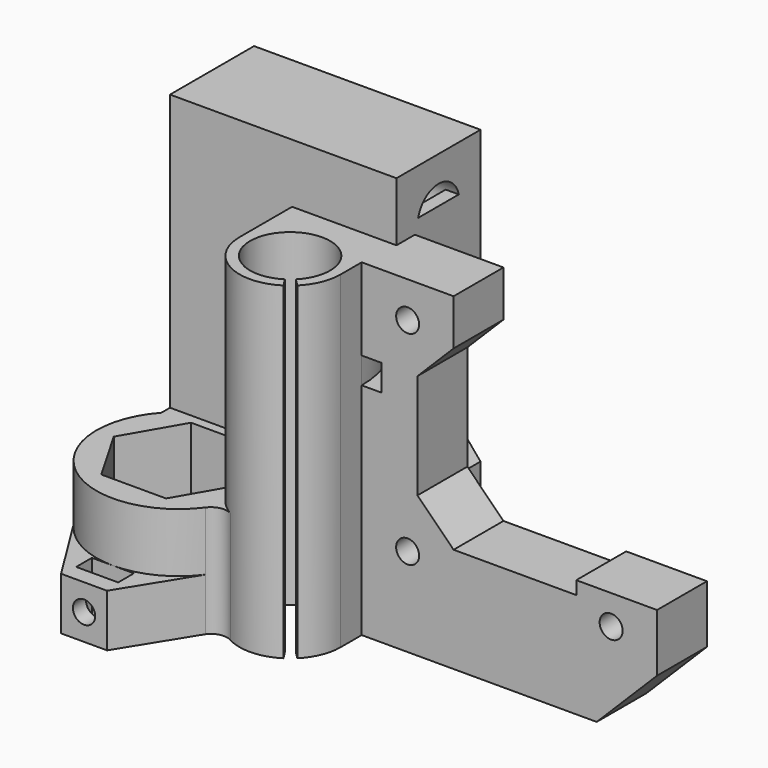
from build123d import *

# Parameters (mm, degrees)
BOX_W           = 34.5
BOX_H           = 16
BOX_DEPTH       = 59
SKETCH_R        = 4
POCKET_DEPTH    = 34.501
POCKET001_DEPTH = 3.5000000001
BOX001_W        = 45
BOX001_H        = 9.5
BOX001_DEPTH    = 50
SKETCH008_R     = 1.75
POCKET002_DEPTH = 9.5010000001
PAD_DEPTH       = 8
PAD001_DEPTH    = 2
SKETCH009_R     = 3.5
POCKET003_DEPTH = 2
PAD002_DEPTH    = 50
SKETCH013_R     = 6
PAD003_DEPTH    = 17
SKETCH019_W     = 9
SKETCH019_H     = 5.5
PAD004_DEPTH    = 2
SKETCH015_W     = 3
SKETCH015_H     = 4
GROOVE_ANGLE    = 40
SKETCH016_W     = 3
SKETCH016_H     = 4
POCKET004_DEPTH = 5
SKETCH020_W     = 6.4
SKETCH020_H     = 3
PAD005_DEPTH    = 8
SKETCH021_R     = 1.7
POCKET005_DEPTH = 13
POCKET006_DEPTH = 15
PAD006_DEPTH    = 17


with BuildPart() as pocket001:
    # Box → Box (new body)
    with BuildSketch(Plane(origin=(-18, -8, -30), x_dir=(1, 0, 0), z_dir=(0, 0, 1))):
        with Locations((17.25, 8)):
            Rectangle(BOX_W, BOX_H)
    extrude(amount=BOX_DEPTH)

    # Sketch → Pocket (cut, through all)
    with BuildSketch(Plane(origin=(16.5, -8, -30), x_dir=(0, 1, 0), z_dir=(1, 0, 0))):
        with Locations((8, 51)):
            Circle(SKETCH_R)
        with Locations((8, 6)):
            Circle(SKETCH_R)
        with BuildLine():
            ThreePointArc((12.5, 39.4999793754), (8.0000103123, 44), (3.5, 39.5))
            Line((3.5, 39.5), (3.5, 14.5))
            Line((3.5, 14.5), (6, 12))
            Line((6, 12), (10, 12))
            Line((10, 12), (12.5, 14.5))
            Line((12.5, 14.5), (12.5, 39.4999793754))
        make_face()
    extrude(amount=-POCKET_DEPTH, mode=Mode.SUBTRACT)

    # Sketch007 → Pocket001 (cut)
    with BuildSketch(Plane(origin=(-18, 8, -30), x_dir=(-1, 0, 0), z_dir=(0, 1, 0))):
        Polygon((-34.5, 39.4999793754), (-24.8503628945, 27.9999896877), (-24.8503628945, 25.9999896877), (-34.5, 14.5), align=None)
    extrude(amount=-POCKET001_DEPTH, mode=Mode.SUBTRACT)


with BuildPart() as pad006:
    # Box001 → Box001 (new body)
    with BuildSketch(Plane(origin=(16, -14, -30), x_dir=(1, 0, 0), z_dir=(0, 0, 1))):
        with Locations((22.5, 4.75)):
            Rectangle(BOX001_W, BOX001_H)
    extrude(amount=BOX001_DEPTH)

    # Sketch008 → Pocket002 (cut, through all)
    with BuildSketch(Plane(origin=(16, -14, -30), x_dir=(1, 0, 0), z_dir=(0, -1, 0))):
        with Locations((7, 44.5)):
            Circle(SKETCH008_R)
        with Locations((7, 13.5)):
            Circle(SKETCH008_R)
        with Locations((38, 13.5)):
            Circle(SKETCH008_R)
        Polygon((14, 50), (14, 43), (8.5, 37.5), (8.5, 21.5), (14, 16), (32.692131, 16), (32.692131, 18), (45, 18), (45, 50), align=None)
        Polygon((45, 9.1923881554), (35.8076118446, 0), (45, 0), align=None)
    extrude(amount=-POCKET002_DEPTH, mode=Mode.SUBTRACT)

    # Fusion: union Pocket001
    add(pocket001.part)

    # Sketch010 → Pad (new body)
    with BuildSketch(Plane(origin=(0, 0, -30), x_dir=(1, 0, 0), z_dir=(0, 0, -1))):
        with BuildLine():
            ThreePointArc((25.4999662688, 4.4999999999), (19.1360389694, 1.8639610307), (16.5000000001, -4.4999662687))
            Line((16.5000000001, -4.4999662687), (16.5000000001, 4.4999999999))
            Line((16.5000000001, 4.4999999999), (25.4999662688, 4.4999999999))
        make_face()
    extrude(amount=-PAD_DEPTH)

    # Sketch011 → Pad001 (new body)
    with BuildSketch(Plane.YZ.offset(16.5)):
        with BuildLine():
            ThreePointArc((-3.4641016151, -22), (0, -28), (3.4641016151, -22))
            Line((-3.4641016151, -22), (3.4641016151, -22))
        make_face()
    extrude(amount=-PAD001_DEPTH)

    # Sketch009 → Pocket003 (cut)
    with BuildSketch(Plane(origin=(0, -4.5, 0), x_dir=(-1, 0, 0), z_dir=(0, 1, 0))):
        with Locations((-23, 14.5)):
            Circle(SKETCH009_R)
        with Locations((-54, -16.5)):
            Circle(SKETCH009_R)
        with Locations((-23, -16.5)):
            Circle(SKETCH009_R)
    extrude(amount=-POCKET003_DEPTH, mode=Mode.SUBTRACT)

    # Sketch012 → Pad002 (new body)
    with BuildSketch(Plane(origin=(0, 0, -30), x_dir=(1, 0, 0), z_dir=(0, 0, -1))):
        with BuildLine():
            ThreePointArc((15.9999999999, 18.0000351724), (15.4138656704, 20.9466786767), (13.7447222151, 23.4447222151))
            Line((13.7447222151, 23.4447222151), (12.6133513652, 22.3133513652))
            ThreePointArc((11.6013945082, 23.1294048681), (4.4708258711, 13.2515870556), (12.6133513652, 22.3133513652))
            Line((11.6013945082, 23.1294048681), (12.4673340514, 24.4748225384))
            ThreePointArc((12.4673340514, 24.4748225384), (4.6120940547, 24.759389746), (0.6000000001, 18.0000351024))
            Line((0.6000000001, 18.0000351024), (0.6000000001, 8))
            Line((0.6000000001, 8), (15.9999999999, 8))
            Line((15.9999999999, 18.0000351724), (15.9999999999, 8))
        make_face()
    extrude(amount=-PAD002_DEPTH)

    # Sketch013 → Pad003 (new body)
    with BuildSketch(Plane(origin=(0, 0, -30), x_dir=(1, 0, 0), z_dir=(0, 0, -1))):
        with BuildLine():
            ThreePointArc((1.3480393737, 25.435516441), (-17.5103595019, 26.8672185857), (-16.2, 8))
            Line((-16.2, 8), (0.6000000001, 8))
            Line((0.6000000001, 8), (0.6, 18.0000060082))
            ThreePointArc((4.5689954494, 24.7356963295), (1.6660458786, 21.9090475457), (0.6, 18.0000060082))
            ThreePointArc((1.3480393737, 25.435516441), (2.8268537634, 24.4796180457), (4.5689954493, 24.7356963295))
        make_face()
        with Locations((-8.7, 18)):
            Circle(SKETCH013_R, mode=Mode.SUBTRACT)
    extrude(amount=-PAD003_DEPTH)

    # Sketch019 → Pad004 (new body)
    with BuildSketch(Plane.YZ.offset(16.5)):
        with Locations((0, 19.25)):
            Rectangle(SKETCH019_W, SKETCH019_H)
    extrude(amount=-PAD004_DEPTH)

    # Sketch015 → Groove (revolve, cut)
    with BuildSketch(Plane.XZ.offset(14)):
        with Locations((17.5, 5.5)):
            Rectangle(SKETCH015_W, SKETCH015_H)
    revolve(axis=Axis((0, -14, 0), (0, 0, 1)), revolution_arc=GROOVE_ANGLE, mode=Mode.SUBTRACT)

    # Sketch016 → Pocket004 (cut)
    with BuildSketch(Plane.XZ.offset(8)):
        with Locations((-0.8999999999, 5.5)):
            Rectangle(SKETCH016_W, SKETCH016_H)
    extrude(amount=-POCKET004_DEPTH, mode=Mode.SUBTRACT)

    # Sketch020 → Pad005 (new body)
    with BuildSketch(Plane(origin=(0, 0, -30), x_dir=(1, 0, 0), z_dir=(0, 0, -1))):
        Polygon((-19.3039162536, 24.6186826549), (-12.2, 36), (-5.2, 36), (1.3480393737, 25.435516441), align=None)
        with Locations((-8.7, 32)):
            Rectangle(SKETCH020_W, SKETCH020_H, mode=Mode.SUBTRACT)
    extrude(amount=-PAD005_DEPTH)

    # Sketch021 → Pocket005 (cut)
    with BuildSketch(Plane.XZ.offset(36)):
        with Locations((-8.7, -26)):
            Circle(SKETCH021_R)
    extrude(amount=-POCKET005_DEPTH, mode=Mode.SUBTRACT)

    # Sketch022 → Pocket006 (cut, symmetric)
    with BuildSketch(Plane.XY.offset(-13)):
        Polygon((-3.7636551984, -26.55), (1.1726896031, -18), (-3.7636551984, -9.45), (-13.6363448016, -9.45), (-18.5726896031, -18), (-13.6363448016, -26.55), align=None)
    extrude(amount=POCKET006_DEPTH, both=True, mode=Mode.SUBTRACT)

    # Sketch024 → Pad006 (new body)
    with BuildSketch(Plane(origin=(0, 0, -30), x_dir=(1, 0, 0), z_dir=(0, 0, -1))):
        Polygon((-18, 9.6477547929), (-18, 8), (-16.2, 8), align=None)
    extrude(amount=-PAD006_DEPTH)


solid = pad006.part
